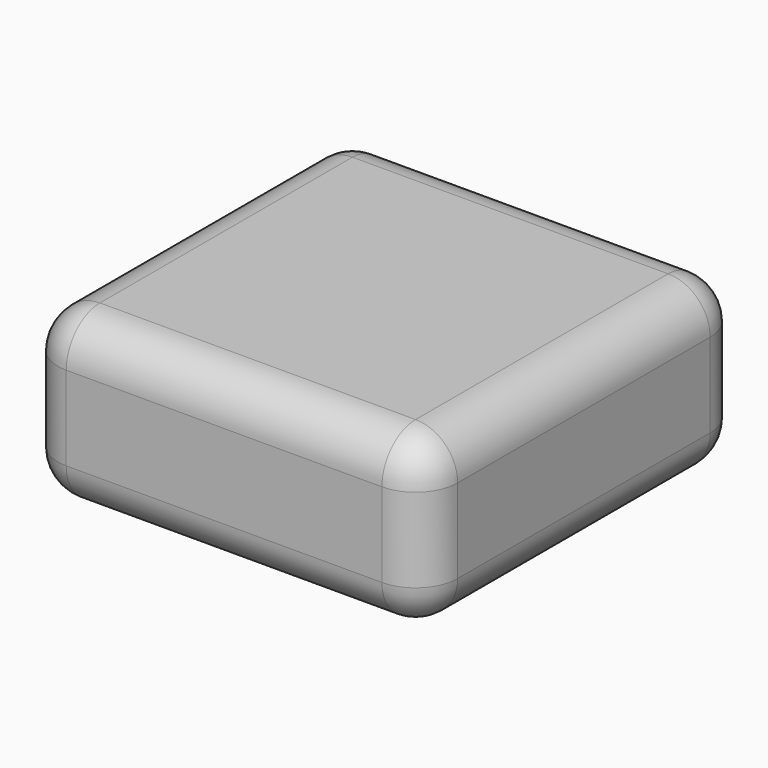
from build123d import *

# Parameters (mm, degrees)
F1_DEPTH = 5.08
F2_R     = 1.27


with BuildPart() as f1:
    # F0 (on Top) → F1 (new body)
    with BuildSketch(Plane.XY):
        with BuildLine():
            ThreePointArc((6.0325, 4.7625), (5.6605256121, 5.6605256121), (4.7625, 6.0325))
            Line((4.7625, 6.0325), (-4.7625, 6.0325))
            ThreePointArc((-4.7625, 6.0325), (-5.6605256121, 5.6605256121), (-6.0325, 4.7625))
            Line((-6.0325, 4.7625), (-6.0325, -4.7625))
            ThreePointArc((-6.0325, -4.7625), (-5.6605256121, -5.6605256121), (-4.7625, -6.0325))
            Line((-4.7625, -6.0325), (4.7625, -6.0325))
            ThreePointArc((4.7625, -6.0325), (5.6605256121, -5.6605256121), (6.0325, -4.7625))
            Line((6.0325, -4.7625), (6.0325, 4.7625))
        make_face()
    extrude(amount=F1_DEPTH)

    # F2
    f2_edges = [f1.edges().sort_by_distance(p)[0] for p in [
        (0, -6.0325, 5.08),
        (0, -6.0325, 0),
    ]]
    fillet(f2_edges, radius=F2_R)


solid = f1.part
